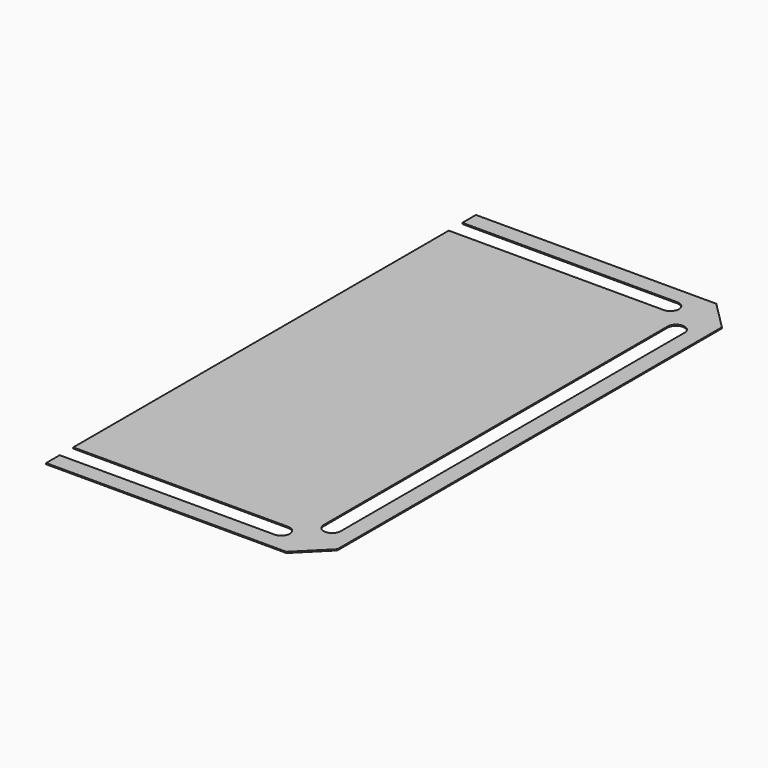
from build123d import *

# Parameters (mm, degrees)
SKETCH001_W        = 95
SKETCH001_H        = 95
PAD001_DEPTH       = 0.2
CHAMFER_SIZE       = 5
POCKET_DEPTH       = 5
POLARPATTERN_COUNT = 4
SKETCH007_W        = 129.60696
SKETCH007_H        = 24.349444
POCKET003_DEPTH    = 47.501


with BuildPart() as part:
    # Sketch001 → Pad001 (new body)
    with BuildSketch(Plane.XY):
        Rectangle(SKETCH001_W, SKETCH001_H)
    extrude(amount=-PAD001_DEPTH)

    # Chamfer
    chamfer_edges = [part.edges().sort_by_distance(p)[0] for p in [
        (-47.5, 47.5, -0.1),
        (47.5, 47.5, -0.1),
        (-47.5, -47.5, -0.1),
        (47.5, -47.5, -0.1),
    ]]
    chamfer(chamfer_edges, length=CHAMFER_SIZE)

    # Sketch003 (on Face2 of Chamfer) → Pocket (cut)
    with BuildSketch(Plane.XY):
        with BuildLine():
            ThreePointArc((-38, 44.5), (-39.5, 43), (-38, 41.5))
            Line((-38, 41.5), (38, 41.5))
            ThreePointArc((38, 41.5), (39.5, 43), (38, 44.5))
            Line((-38, 44.5), (38, 44.5))
        make_face()
    pocket = extrude(amount=-POCKET_DEPTH, mode=Mode.SUBTRACT)

    # PolarPattern: Pocket ×4 about axis
    polarpattern_axis = Axis((0, 0, 0), (0, 0, 1))
    for i in range(1, POLARPATTERN_COUNT):
        add(pocket.rotate(polarpattern_axis, i * 360 / POLARPATTERN_COUNT), mode=Mode.SUBTRACT)

    # Sketch007 → Pocket003 (cut, through all)
    with BuildSketch(Plane.YZ):
        with Locations((-2.349726, 5.652762)):
            Rectangle(SKETCH007_W, SKETCH007_H)
    extrude(amount=-POCKET003_DEPTH, mode=Mode.SUBTRACT)


solid = part.part
